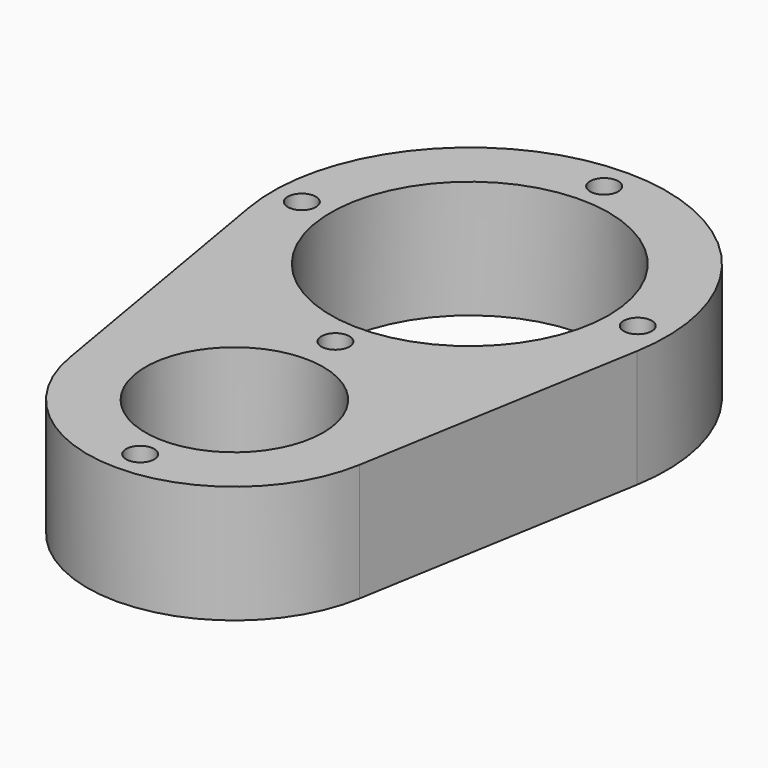
from build123d import *

# Parameters (mm, degrees)
F0_R     = 3.0353
F0_R_2   = 19.177
F0_R_3   = 30
F1_DEPTH = 25.4


with BuildPart() as f1:
    # F0 (on Top) → F1 (new body)
    with BuildSketch(Plane.XY):
        with BuildLine():
            ThreePointArc((-31.291722, -68.875), (0, -95.25), (31.291722, -68.875))
            Line((31.291722, -68.875), (41.886557, -7.194882))
            ThreePointArc((41.886557, -7.194882), (0, 42.5), (-41.886557, -7.194882))
            Line((-41.886557, -7.194882), (-31.291722, -68.875))
        make_face()
        with Locations((0, -88.9)):
            Circle(F0_R, mode=Mode.SUBTRACT)
        with Locations((0, -63.5)):
            Circle(F0_R_2, mode=Mode.SUBTRACT)
        with Locations((0, -36.2458)):
            Circle(F0_R, mode=Mode.SUBTRACT)
        with Locations((-36.2458, 0)):
            Circle(F0_R, mode=Mode.SUBTRACT)
        Circle(F0_R_3, mode=Mode.SUBTRACT)
        with Locations((36.2458, 0)):
            Circle(F0_R, mode=Mode.SUBTRACT)
        with Locations((0, 36.2458)):
            Circle(F0_R, mode=Mode.SUBTRACT)
    extrude(amount=F1_DEPTH)


solid = f1.part
